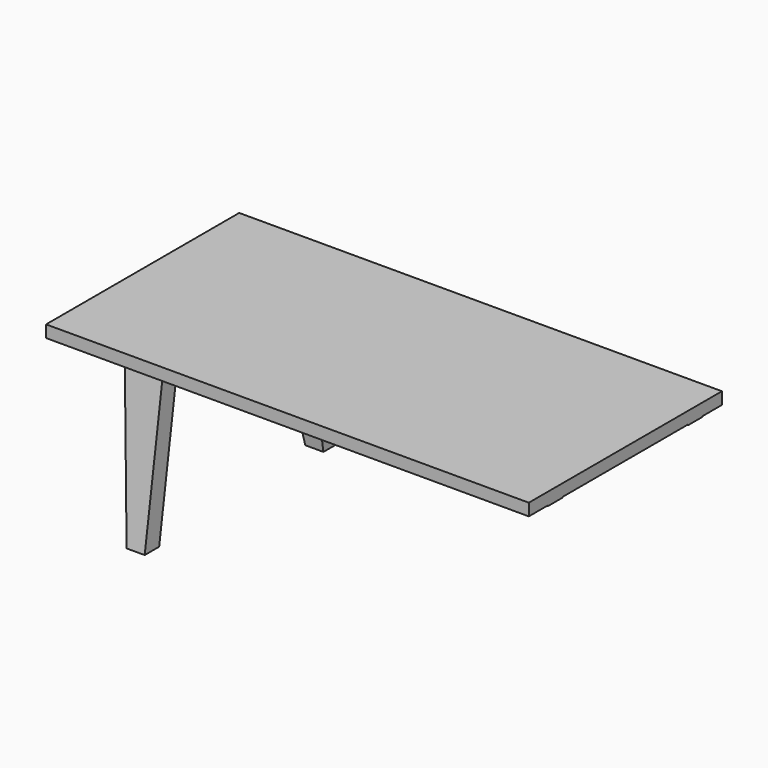
from build123d import *

# Parameters (mm, degrees)
F0_W     = 2032
F0_H     = 1016
F1_DEPTH = 720
F3_DEPTH = 3810
F5_DEPTH = 1143


with BuildPart() as f1:
    # F0 (on Top) → F1 (new body)
    with BuildSketch(Plane.XY):
        with Locations((1016, 508)):
            Rectangle(F0_W, F0_H)
    extrude(amount=F1_DEPTH)

    # F2 (on face) → F3 (cut)
    with BuildSketch(Plane.YZ.offset(2032)):
        Polygon((76.199963, 0.074586), (76.188638, 0), (101.6, 0), (924.743533, 0), (940.272614, 0), (838.2, 669.2), (177.8, 669.2), align=None)
        Polygon((101.6, 669.2), (0, 669.2), (0, 0), align=None)
        Polygon((1016, 0), (1016, 669.2), (914.4, 669.2), align=None)
    extrude(amount=-F3_DEPTH, mode=Mode.SUBTRACT)

    # F4 (on Front) → F5 (cut)
    with BuildSketch(Plane.XZ):
        Polygon((415.1, 0), (2584.981293, 0), (2584.981301, 666.419255), (415.1, 666.419255), align=None)
        Polygon((250, 666.419255), (0, 666.419255), (0, 0), (338.9, 0), align=None)
        Polygon((3000.081301, 0), (3000.081301, 666.419255), (2750.081301, 666.419255), (2661.181293, 0), (2740.58795, 0), align=None)
    extrude(amount=-F5_DEPTH, mode=Mode.SUBTRACT)


solid = f1.part
